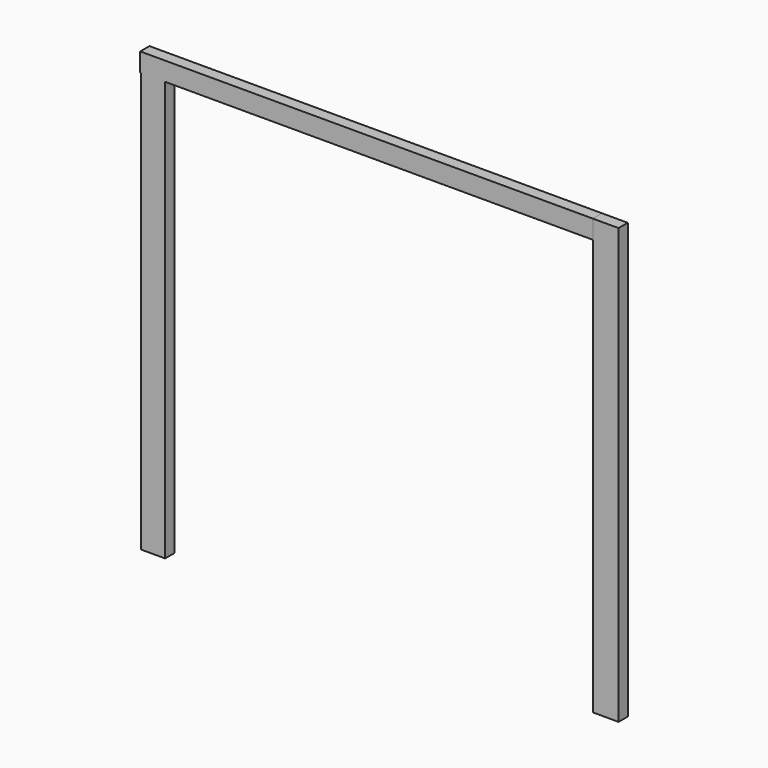
from build123d import *

# Parameters (mm, degrees)
F0_W     = 5.288299
F0_H     = 96.168689
F1_DEPTH = 2.54
F2_W     = 105.178383
F2_H     = 4.113123
F3_DEPTH = 2.54
F4_W     = 5.680029
F4_H     = 95.776964
F5_DEPTH = 2.54


with BuildPart() as f1:
    # F0 (on Front) → F1 (new body)
    with BuildSketch(Plane.XZ):
        with Locations((-47.202962, -12.24143)):
            Rectangle(F0_W, F0_H)
    extrude(amount=F1_DEPTH)

    # F2 (on Front) → F3 (join)
    with BuildSketch(Plane.XZ):
        with Locations((2.546216, 34.178078)):
            Rectangle(F2_W, F2_H)
    extrude(amount=F3_DEPTH)


with BuildPart() as f5:
    # F4 (on Front) → F5 (new body)
    with BuildSketch(Plane.XZ):
        with Locations((52.491264, -11.653842)):
            Rectangle(F4_W, F4_H)
    extrude(amount=F5_DEPTH)


solid = Compound([f1.part, f5.part])
